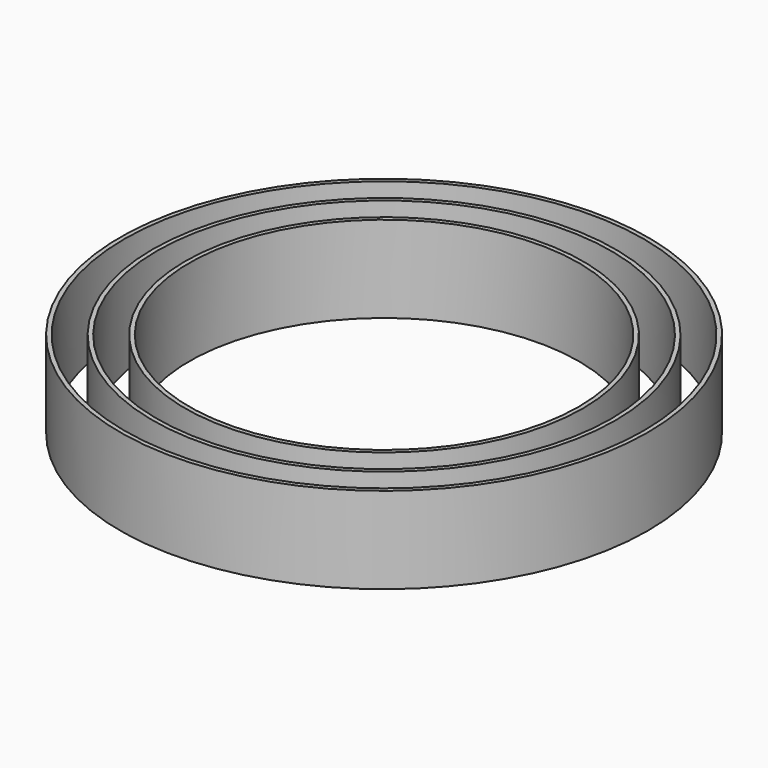
from build123d import *

# Parameters (mm, degrees)
F0_R     = 610
F0_R_2   = 600
F1_DEPTH = 200
F0_R_3   = 460
F0_R_4   = 450
F0_R_5   = 535
F0_R_6   = 525


with BuildPart() as f1:
    # F0 (on Top) → F1 (new body)
    with BuildSketch(Plane.XY):
        Circle(F0_R)
        Circle(F0_R_2, mode=Mode.SUBTRACT)
    extrude(amount=F1_DEPTH)


with BuildPart() as f1b:
    # F0 (on Top) → F1, piece 2 (new body)
    with BuildSketch(Plane.XY):
        Circle(F0_R_3)
        Circle(F0_R_4, mode=Mode.SUBTRACT)
    extrude(amount=F1_DEPTH)


with BuildPart() as f1c:
    # F0 (on Top) → F1, piece 3 (new body)
    with BuildSketch(Plane.XY):
        Circle(F0_R_5)
        Circle(F0_R_6, mode=Mode.SUBTRACT)
    extrude(amount=F1_DEPTH)


solid = Compound([f1.part, f1b.part, f1c.part])
